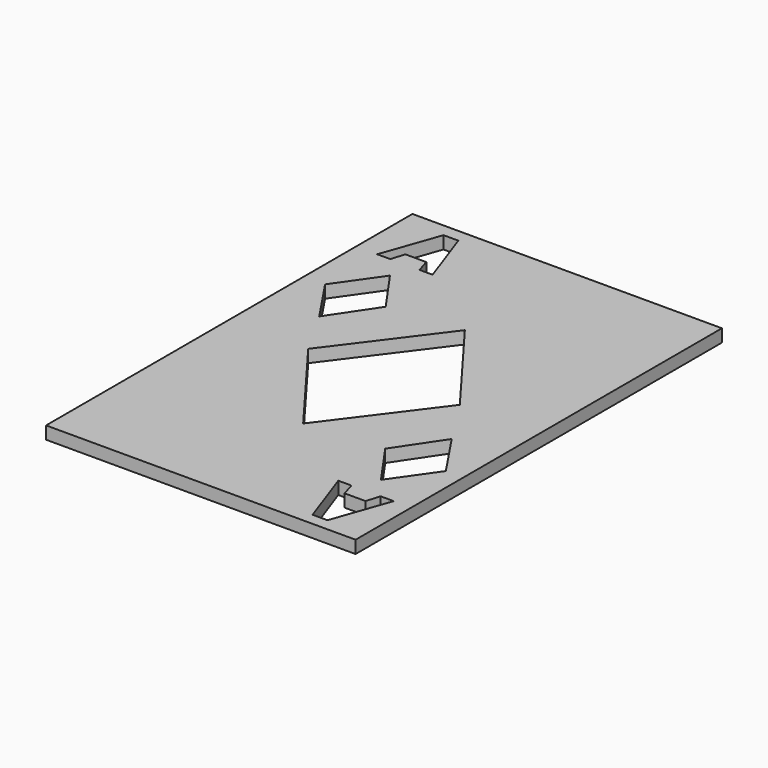
from build123d import *

# Parameters (mm, degrees)
F0_W     = 62.23
F0_H     = 92.075
F1_DEPTH = 2.54
F3_DEPTH = 12.7


with BuildPart() as f1:
    # F0 (on Top) → F1 (new body)
    with BuildSketch(Plane.XY):
        Rectangle(F0_W, F0_H)
        Polygon((16.454207646, -32.053246701), (19.0875787672, -32.053246701), (19.9224885766, -34.7976028119), (24.1247838715, -34.7976028119), (24.9596936809, -32.053246701), (27.5930648021, -32.053246701), (23.5244559722, -43.6259542716), (20.5379507927, -43.6259542716), align=None, mode=Mode.SUBTRACT)
        Polygon((21.5002411018, -27.6458942917), (15.4074174015, -18.9542501874), (21.5001377497, -9.865894292), (27.5930648021, -18.951049739), align=None, mode=Mode.SUBTRACT)
        Polygon((-20.7748314368, 27.466991376), (-14.6820077366, 18.7753472716), (-20.7747280847, 9.6869913763), (-26.8676551371, 18.7721468232), align=None, mode=Mode.SUBTRACT)
        Polygon((-15.7287979811, 31.8743437853), (-18.3621691022, 31.8743437853), (-19.1970789117, 34.6186998962), (-23.3993742065, 34.6186998962), (-24.234284016, 31.8743437853), (-26.8676551371, 31.8743437853), (-22.7990463072, 43.4470513559), (-19.8125411277, 43.4470513559), align=None, mode=Mode.SUBTRACT)
    extrude(amount=F1_DEPTH)

    # F2 (on face) → F3 (cut)
    with BuildSketch(Plane.XY.offset(2.54)):
        Polygon((0, 0), (0, -20.32), (15.24, 0), align=None)
        Polygon((-15.24, 0), (0, -20.32), (0, 0), align=None)
        Polygon((0, 0), (15.24, 0), (0, 20.32), align=None)
        Polygon((0, 20.32), (-15.24, 0), (0, 0), align=None)
    extrude(amount=-F3_DEPTH, mode=Mode.SUBTRACT)


solid = f1.part
